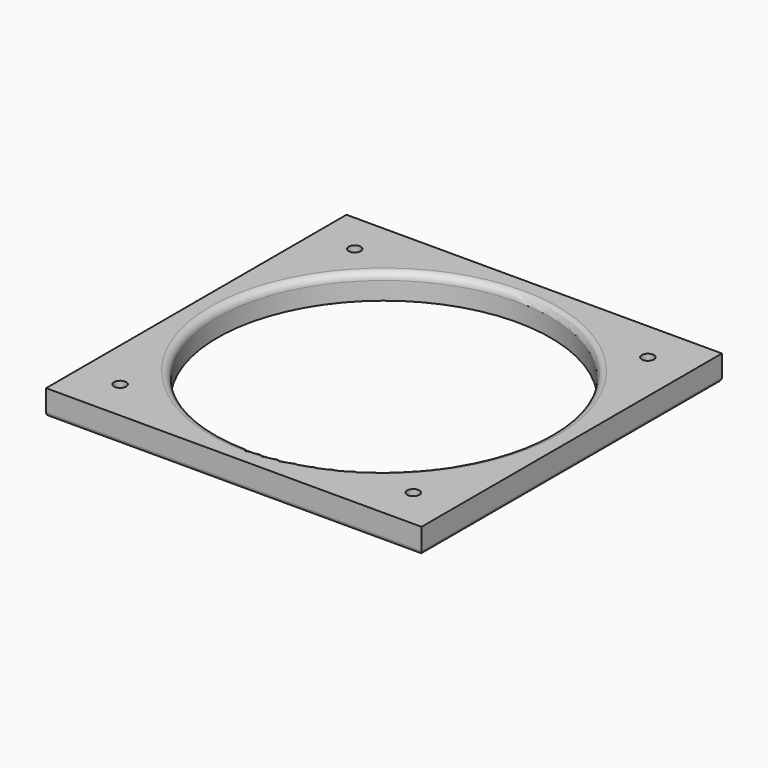
from build123d import *

# Parameters (mm, degrees)
SKETCH_W           = 105
SKETCH_H           = 105
PAD_DEPTH          = 7
SKETCH002_R        = 1.7
POCKET_DEPTH       = 9
POLARPATTERN_COUNT = 4
SKETCH001_R        = 46.59
POCKET001_DEPTH    = 8
FILLET_R           = 2
FILLET001_R        = 1


with BuildPart() as part:
    # Sketch → Pad (new body)
    with BuildSketch(Plane.XY):
        Rectangle(SKETCH_W, SKETCH_H)
    extrude(amount=PAD_DEPTH)

    # Sketch002 (on Face6 of Pad) → Pocket (cut)
    with BuildSketch(Plane.XY.offset(7)):
        with Locations((-41, 41)):
            Circle(SKETCH002_R)
    pocket = extrude(amount=-POCKET_DEPTH, mode=Mode.SUBTRACT)

    # PolarPattern: Pocket ×4 about axis
    polarpattern_axis = Axis((0, 0, 7), (0, 0, 1))
    for i in range(1, POLARPATTERN_COUNT):
        add(pocket.rotate(polarpattern_axis, i * 360 / POLARPATTERN_COUNT), mode=Mode.SUBTRACT)

    # Sketch001 (on Face6 of Pad) → Pocket001 (cut)
    with BuildSketch(Plane.XY.offset(7)):
        Circle(SKETCH001_R)
    extrude(amount=-POCKET001_DEPTH, mode=Mode.SUBTRACT)

    # Fillet
    fillet_edges = [part.edges().sort_by_distance(p)[0] for p in [
        (-46.59, 0, 7),
    ]]
    fillet(fillet_edges, radius=FILLET_R)

    # Fillet001
    fillet001_edges = [part.edges().sort_by_distance(p)[0] for p in [
        (52.5, 0, 0),
        (-52.5, 0, 0),
        (0, -52.5, 0),
        (0, 52.5, 0),
    ]]
    fillet(fillet001_edges, radius=FILLET001_R)


solid = part.part
